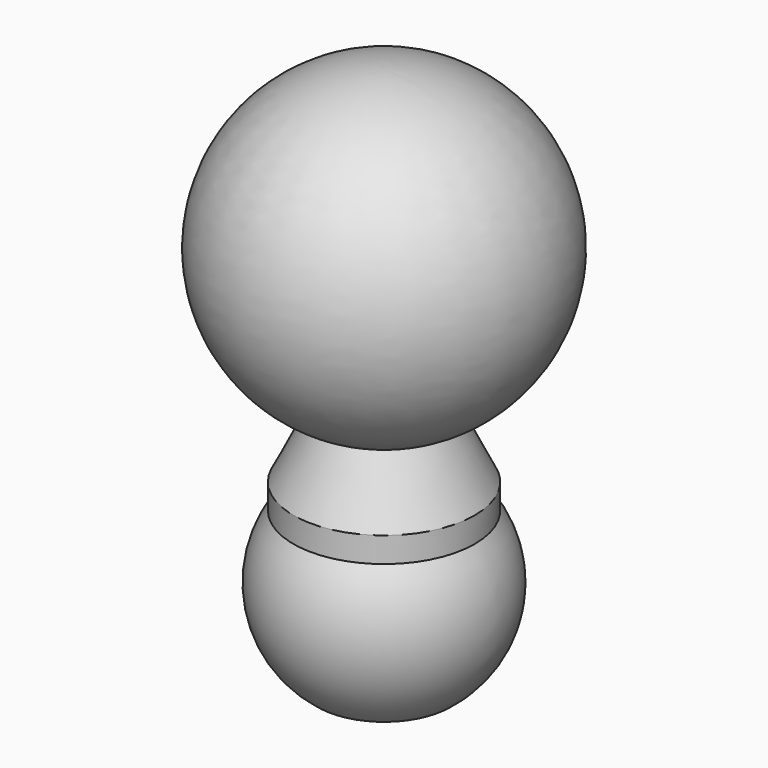
from build123d import *

# Parameters (mm, degrees)
F0_W = 7.1807033082
F0_H = 1.9969157875


with BuildPart() as f1:
    # F0 (on Front) → F1 (revolve)
    with BuildSketch(Plane.XZ):
        with Locations((3.6007150796, 12.9997162148)):
            Rectangle(F0_W, F0_H)
        with BuildLine():
            Line((0.0103634255, 12.0012583211), (0.0103634255, 0))
            Line((0.0103634255, 0), (5.258685245, 0))
            ThreePointArc((5.258685245, 0), (8.6490969397, 5.6102934505), (7.1910667337, 12.0012583211))
            Line((7.1910667337, 12.0012583211), (0.0103634255, 12.0012583211))
        make_face()
        with BuildLine():
            Line((0.0103634255, 17.800398122), (0.0103634255, 13.9981741086))
            Line((0.0103634255, 13.9981741086), (7.1910667337, 13.9981741086))
            Line((7.1910667337, 13.9981741086), (4.849891591, 18.7804915355))
            ThreePointArc((4.849891591, 18.7804915355), (2.4790452761, 18.0488975311), (0.0103634255, 17.800398122))
        make_face()
        with BuildLine():
            Line((0.0103634255, 18.7804915355), (0.0103634255, 17.800398122))
            ThreePointArc((0.0103634255, 17.800398122), (2.4790452761, 18.0488975311), (4.849891591, 18.7804915355))
            Line((4.849891591, 18.7804915355), (0.0103634255, 18.7804915355))
        make_face()
        with BuildLine():
            Line((0.0103634255, 18.7804915355), (4.849891591, 18.7804915355))
            ThreePointArc((4.849891591, 18.7804915355), (12.2431405193, 32.7588724364), (0.0103634255, 42.779572357))
            Line((0.0103634255, 42.779572357), (0.0103634255, 18.7804915355))
        make_face()
    revolve(axis=Axis((0.0103634255, 0, 21.3897861785), (0, 0, 1)))


solid = f1.part
